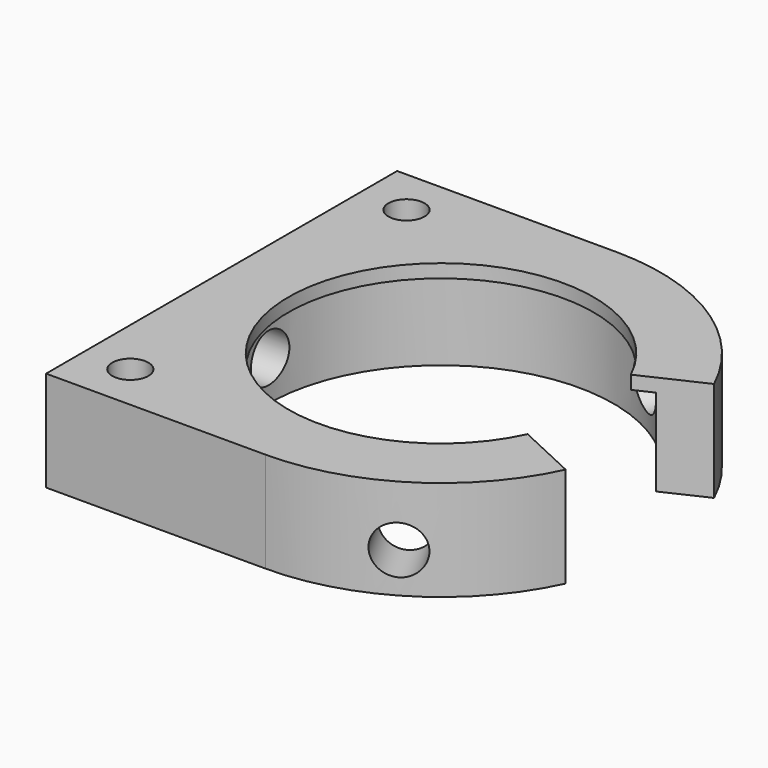
from build123d import *

# Parameters (mm, degrees)
F1_DEPTH  = 7.5
F2_R      = 12.9
F3_DEPTH  = 6.5
F7_R      = 1.8
F8_DEPTH  = 10
F9_R      = 1.8
F10_DEPTH = 10
F11_R     = 1.8
F12_DEPTH = 10
F13_R     = 1.35
F14_DEPTH = 7.501


with BuildPart() as f1:
    # F0 (on Top) → F1 (new body)
    with BuildSketch(Plane.XY):
        with BuildLine():
            ThreePointArc((10.331909, -4.817848), (-11.4, 0), (10.331909, 4.817848))
            Line((10.331909, 4.817848), (14.863448, 6.930939))
            ThreePointArc((14.863448, 6.930939), (8.811714, 13.83162), (0, 16.4))
            Line((0, 16.4), (-16.4, 16.4))
            Line((-16.4, 16.4), (-16.4, -16.4))
            Line((-16.4, -16.4), (0, -16.4))
            ThreePointArc((0, -16.4), (8.811714, -13.83162), (14.863448, -6.930939))
            Line((14.863448, -6.930939), (10.331909, -4.817848))
        make_face()
    extrude(amount=F1_DEPTH)

    # F2 (on face) → F3 (cut)
    with BuildSketch(Plane(origin=(0, 0, 0), x_dir=(1, 0, 0), z_dir=(0, 0, -1))):
        Circle(F2_R)
    extrude(amount=-F3_DEPTH, mode=Mode.SUBTRACT)

    # F7 (on face) → F8 (cut)
    with BuildSketch(Plane(origin=(8.2, 14.202817, 0), x_dir=(-0.866025, 0.5, 0), z_dir=(0.5, 0.866025, 0))):
        with Locations((0, 3)):
            Circle(F7_R)
    extrude(amount=-F8_DEPTH, mode=Mode.SUBTRACT)

    # F9 (on face) → F10 (cut)
    with BuildSketch(Plane(origin=(-16.4, 0, 0), x_dir=(0, -1, 0), z_dir=(-1, 0, 0))):
        with Locations((0, 3)):
            Circle(F9_R)
    extrude(amount=-F10_DEPTH, mode=Mode.SUBTRACT)

    # F11 (on face) → F12 (cut)
    with BuildSketch(Plane(origin=(8.2, -14.202817, 0), x_dir=(0.866025, 0.5, 0), z_dir=(0.5, -0.866025, 0))):
        with Locations((0, 3)):
            Circle(F11_R)
    extrude(amount=-F12_DEPTH, mode=Mode.SUBTRACT)

    # F13 (on face) → F14 (cut, through all)
    with BuildSketch(Plane(origin=(0, 0, 0), x_dir=(1, 0, 0), z_dir=(0, 0, -1))):
        with Locations((-12.9, -12.9)):
            Circle(F13_R)
        with Locations((-12.9, 12.9)):
            Circle(F13_R)
    extrude(amount=-F14_DEPTH, mode=Mode.SUBTRACT)


solid = f1.part
